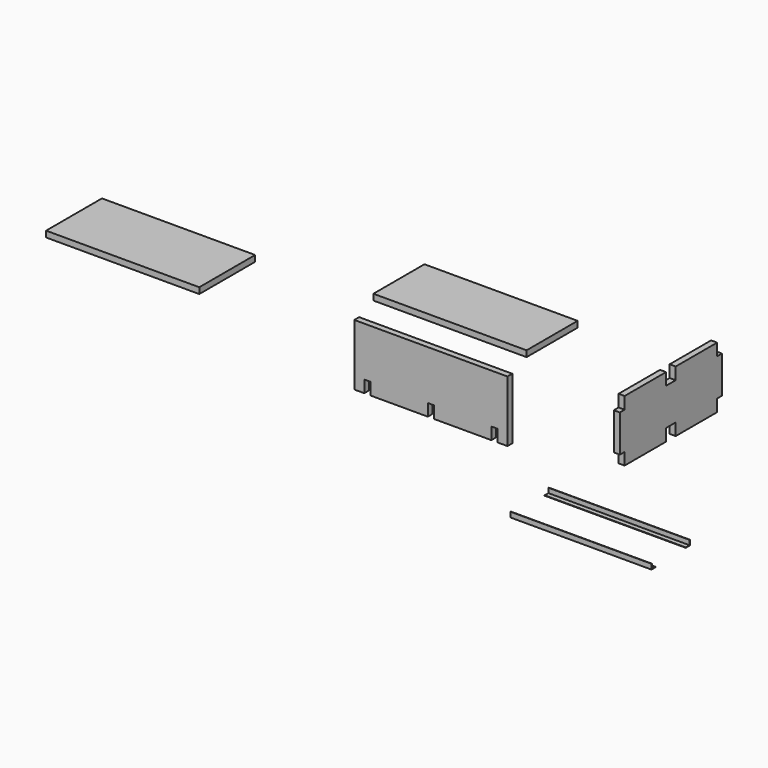
from build123d import *

# Parameters (mm, degrees)
F1_DEPTH  = 30
F3_DEPTH  = 15
F4_W      = 762
F4_H      = 317.5
F5_DEPTH  = 30
F6_W      = 762
F6_H      = 347.5
F7_DEPTH  = 30
F9_DEPTH  = 702
F11_DEPTH = 702


with BuildPart() as f1:
    # F0 (on Right) → F1 (new body)
    with BuildSketch(Plane.YZ):
        Polygon((466.2374494703, 257.6106337394), (208.7374494703, 257.6106337394), (208.7374494703, 197.6106337394), (178.7374494703, 197.6106337394), (178.7374494703, 12.8106337394), (208.7374494703, 12.8106337394), (208.7374494703, -47.1893662606), (466.2374494703, -47.1893662606), (466.2374494703, 12.8106337394), (496.2374494703, 12.8106337394), (526.2374494703, 12.8106337394), (526.2374494703, -47.1893662606), (783.7374494703, -47.1893662606), (783.7374494703, 12.8106337394), (813.7374494703, 12.8106337394), (813.7374494703, 197.6106337394), (783.7374494703, 197.6106337394), (783.7374494703, 257.6106337394), (526.2374494703, 257.6106337394), (526.2374494703, 197.6106337394), (496.2374494703, 197.6106337394), (466.2374494703, 197.6106337394), align=None)
    extrude(amount=F1_DEPTH)


with BuildPart() as f3:
    # F2 (on Front) → F3 (new body, symmetric)
    with BuildSketch(Plane.XZ):
        Polygon((-423.9423278741, -2.2772382736), (-373.9423278741, -2.2772382736), (-373.9423278741, 302.5227617264), (-739.9423278741, 302.5227617264), (-769.9423278741, 302.5227617264), (-1135.9423278741, 302.5227617264), (-1135.9423278741, -2.2772382736), (-1085.9423278741, -2.2772382736), (-1085.9423278741, 57.7227617264), (-1055.9423278741, 57.7227617264), (-1055.9423278741, -2.2772382736), (-769.9423278741, -2.2772382736), (-769.9423278741, 57.7227617264), (-739.9423278741, 57.7227617264), (-739.9423278741, -2.2772382736), (-453.9423278741, -2.2772382736), (-453.9423278741, 57.7227617264), (-423.9423278741, 57.7227617264), align=None)
    extrude(amount=F3_DEPTH, both=True)


with BuildPart() as f5:
    # F4 (on Top) → F5 (new body)
    with BuildSketch(Plane.XY):
        with Locations((-1161.608338356, 771.0658864038)):
            Rectangle(F4_W, F4_H)
    extrude(amount=F5_DEPTH)


with BuildPart() as f7:
    # F6 (on Top) → F7 (new body)
    with BuildSketch(Plane.XY):
        with Locations((-2485.8374595642, 406.1455408742)):
            Rectangle(F6_W, F6_H)
    extrude(amount=F7_DEPTH)


with BuildPart() as f9:
    # F8 (on Right) → F9 (new body)
    with BuildSketch(Plane.YZ):
        Polygon((-462.1549821615, 14.736385662), (-464.1549821615, 14.736385662), (-464.1549821615, -10.663614338), (-438.7549821615, -10.663614338), (-438.7549821615, -8.663614338), (-462.1549821615, -8.663614338), align=None)
    extrude(amount=F9_DEPTH)


with BuildPart() as f11:
    # F10 (on Right) → F11 (new body)
    with BuildSketch(Plane.YZ):
        Polygon((-225.6837735602, -2), (-225.6837735602, 23.4), (-227.6837735602, 23.4), (-227.6837735602, 0), (-251.0837735602, 0), (-251.0837735602, -2), align=None)
    extrude(amount=F11_DEPTH)


solid = Compound([f1.part, f3.part, f5.part, f7.part, f9.part, f11.part])
